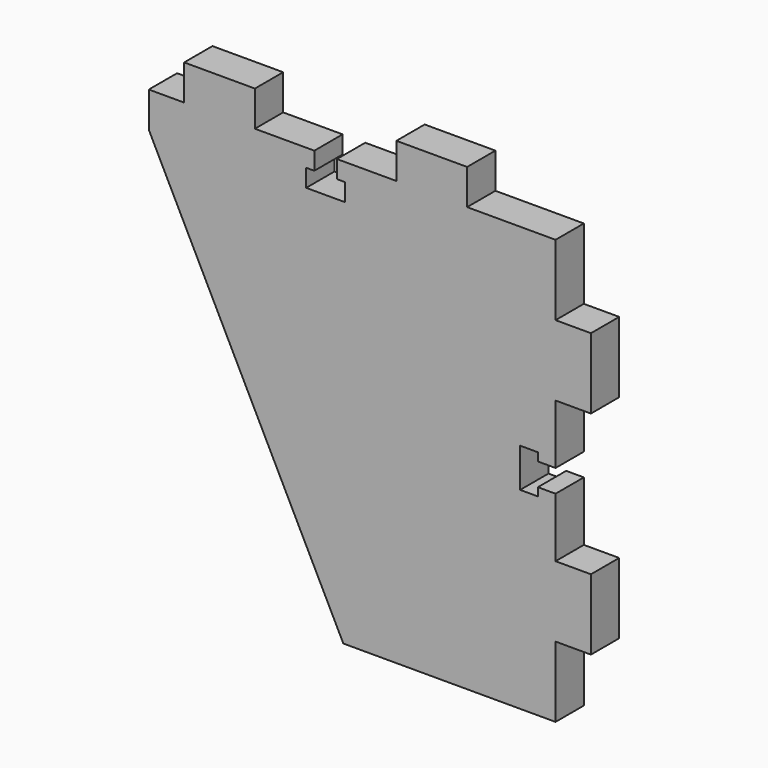
from build123d import *

# Parameters (mm, degrees)
F2_DEPTH = 5


with BuildPart() as f2:
    # F1 (on Front) → F2 (new body)
    with BuildSketch(Plane.XZ):
        Polygon((-30, 0), (0, 0), (0, 10), (5, 10), (5, 20), (0, 20), (0, 28.4), (-2.5, 28.4), (-2.5, 27.25), (-5, 27.25), (-5, 30), (-5, 32.75), (-2.5, 32.75), (-2.5, 31.6), (0, 31.6), (0, 40), (5, 40), (5, 50), (0, 50), (0, 60), (-12.5, 60), (-12.5, 65), (-22.5, 65), (-22.5, 60), (-30.9, 60), (-30.9, 57.5), (-29.75, 57.5), (-29.75, 55), (-32.5, 55), (-35.25, 55), (-35.25, 57.5), (-34.1, 57.5), (-34.1, 60), (-42.5, 60), (-42.5, 65), (-52.5, 65), (-52.5, 60), (-57.5, 60), (-57.5, 55), align=None)
    extrude(amount=F2_DEPTH)


solid = f2.part
